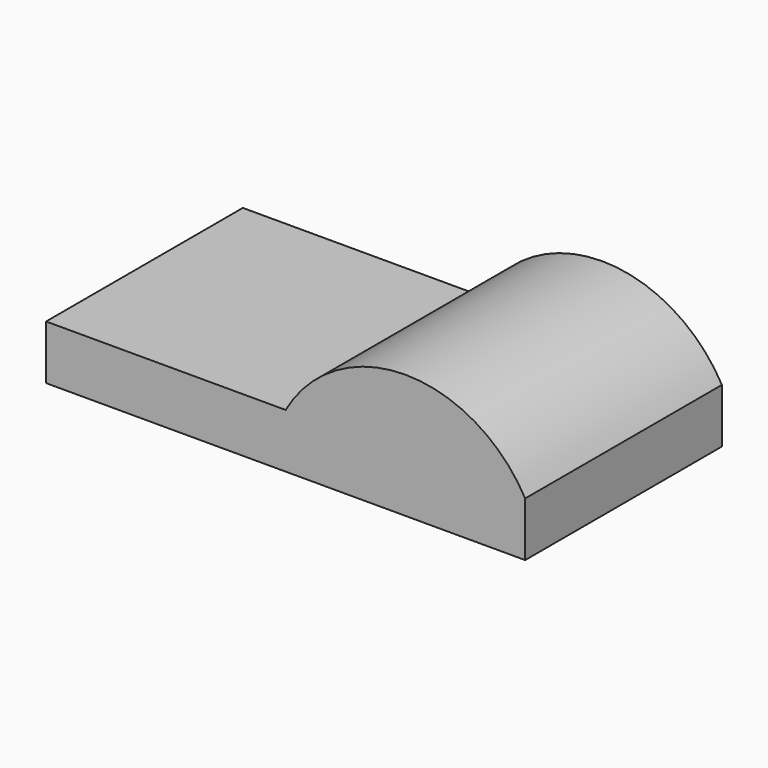
from build123d import *

# Parameters (mm, degrees)
F0_W     = 4.62
F0_H     = 1.02
F0_W_2   = 4.12
F0_H_2   = 0.52
F1_DEPTH = 8
F2_W     = 4.62
F2_H     = 1.02
F3_DEPTH = 1
F5_DEPTH = 4.62


with BuildPart() as f1:
    # F0 (on Right) → F1 (new body)
    with BuildSketch(Plane.YZ):
        with Locations((3.31, 19.710189)):
            Rectangle(F0_W, F0_H)
        with Locations((3.31, 19.710189)):
            Rectangle(F0_W_2, F0_H_2, mode=Mode.SUBTRACT)
    extrude(amount=-F1_DEPTH)

    # F2 (on face) → F3 (join)
    with BuildSketch(Plane.YZ):
        with Locations((3.31, 19.710189)):
            Rectangle(F2_W, F2_H)
    extrude(amount=F3_DEPTH)

    # F4 (on face) → F5 (join)
    with BuildSketch(Plane(origin=(0, 5.62, 0), x_dir=(-1, 0, 0), z_dir=(0, 1, 0))):
        with BuildLine():
            Line((-1, 20.220189), (3.5, 20.220189))
            ThreePointArc((3.5, 20.220189), (1.25, 21.535009), (-1, 20.220189))
        make_face()
    extrude(amount=-F5_DEPTH)


solid = f1.part
